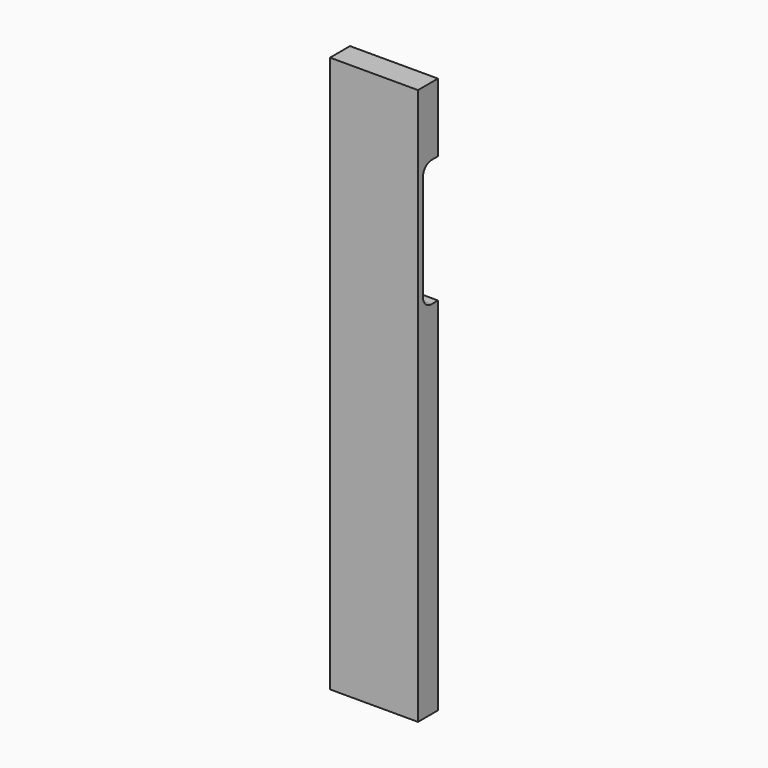
from build123d import *

# Parameters (mm, degrees)
F1_DEPTH = 25


with BuildPart() as f1:
    # F0 (on Right) → F1 (new body)
    with BuildSketch(Plane.YZ):
        with BuildLine():
            Line((-42.287987, 69.438771), (-49.387987, 69.438771))
            Line((-49.387987, 69.438771), (-49.387987, -88.631229))
            Line((-49.387987, -88.631229), (-42.287987, -88.631229))
            Line((-42.287987, -88.631229), (-42.287987, 13.929646))
            Line((-42.287987, 13.929646), (-44.612987, 13.929646))
            ThreePointArc((-44.612987, 13.929646), (-46.734308, 14.808326), (-47.612987, 16.929646))
            Line((-47.612987, 16.929646), (-47.612987, 46.992207))
            ThreePointArc((-47.612987, 46.992207), (-46.734308, 49.113528), (-44.612987, 49.992207))
            Line((-44.612987, 49.992207), (-42.287987, 49.992207))
            Line((-42.287987, 49.992207), (-42.287987, 69.438771))
        make_face()
    extrude(amount=F1_DEPTH)


solid = f1.part
